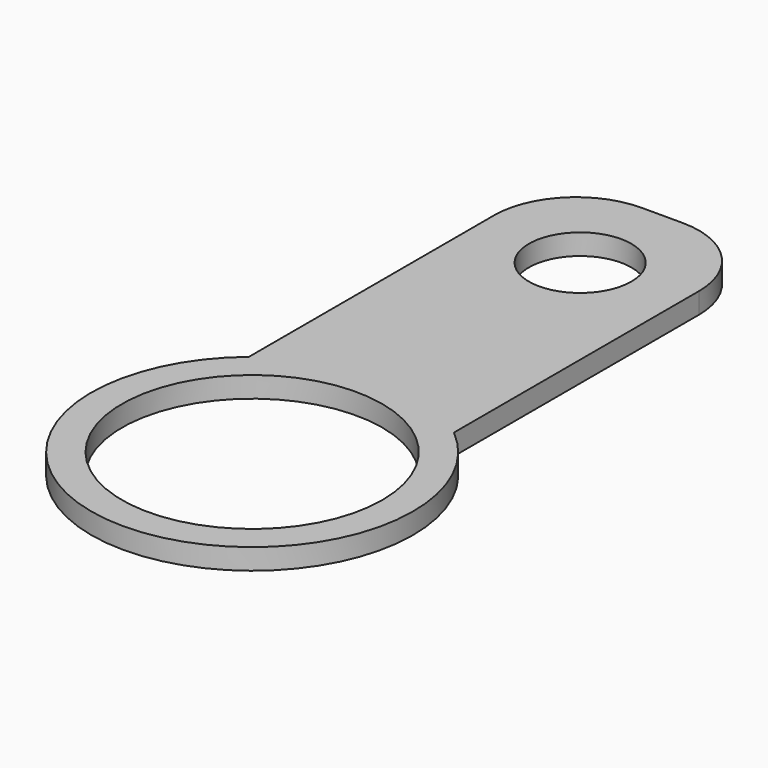
from build123d import *

# Parameters (mm, degrees)
F0_R     = 12.7
F0_R_2   = 5
F1_DEPTH = 2.032


with BuildPart() as f1:
    # F0 (on Top) → F1 (new body)
    with BuildSketch(Plane.XY):
        with BuildLine():
            Line((2, 50), (-2, 50))
            ThreePointArc((-2, 50), (-7.656854, 47.656854), (-10, 42))
            Line((-10, 42), (-10, 12.103305))
            ThreePointArc((-10, 12.103305), (0, -15.7), (10, 12.103305))
            Line((10, 12.103305), (10, 42))
            ThreePointArc((10, 42), (7.656854, 47.656854), (2, 50))
        make_face()
        Circle(F0_R, mode=Mode.SUBTRACT)
        with Locations((0, 40)):
            Circle(F0_R_2, mode=Mode.SUBTRACT)
    extrude(amount=F1_DEPTH)


solid = f1.part
